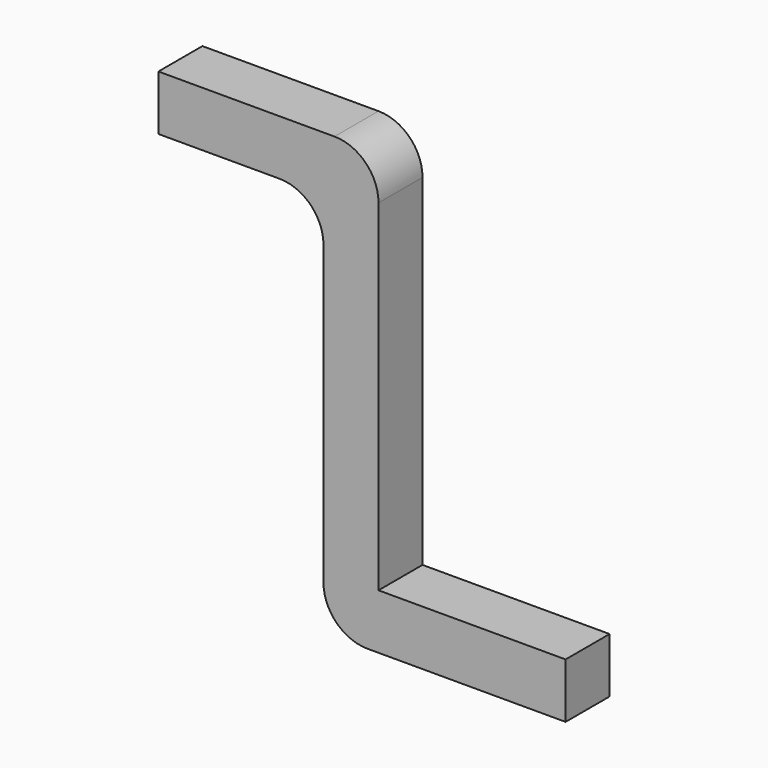
from build123d import *

# Parameters (mm, degrees)
F1_DEPTH = 5


with BuildPart() as f1:
    # F0 (on Front) → F1 (new body)
    with BuildSketch(Plane.XZ):
        with BuildLine():
            Line((-26.139792, 29.607817), (-26.139792, 24.607817))
            Line((-26.139792, 24.607817), (-15.139792, 24.607817))
            ThreePointArc((-15.139792, 24.607817), (-12.311365, 23.436244), (-11.139792, 20.607817))
            Line((-11.139792, 20.607817), (-11.139792, -6.392183))
            ThreePointArc((-11.139792, -6.392183), (-9.968219, -9.22061), (-7.139792, -10.392183))
            Line((-7.139792, -10.392183), (10.860208, -10.392183))
            Line((10.860208, -10.392183), (10.860208, -5.392183))
            Line((10.860208, -5.392183), (-6.139792, -5.392183))
            Line((-6.139792, -5.392183), (-6.139792, 25.607817))
            ThreePointArc((-6.139792, 25.607817), (-7.311365, 28.436244), (-10.139792, 29.607817))
            Line((-10.139792, 29.607817), (-26.139792, 29.607817))
        make_face()
    extrude(amount=F1_DEPTH)


solid = f1.part
